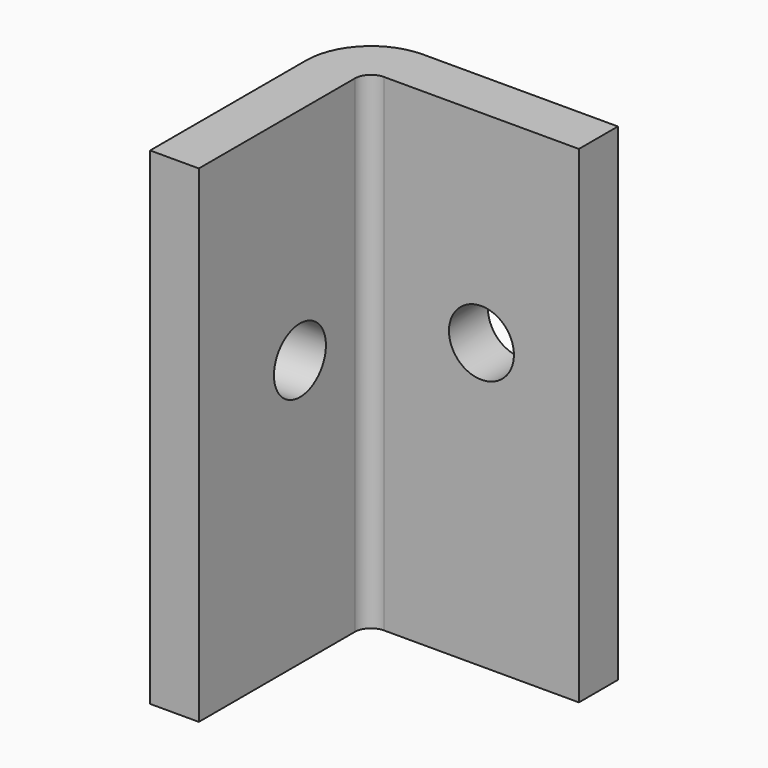
from build123d import *

# Parameters (mm, degrees)
F1_DEPTH = 150
F2_R     = 20
F3_R     = 5
F4_R     = 10
F5_DEPTH = 80.001
F6_R     = 10
F7_DEPTH = 80.001


with BuildPart() as f1:
    # F0 (on Top) → F1 (new body)
    with BuildSketch(Plane.XY):
        Polygon((0, 80), (0, 0), (15, 0), (15, 65), (80, 65), (80, 80), align=None)
    extrude(amount=F1_DEPTH)

    # F2
    f2_edges = [f1.edges().sort_by_distance(p)[0] for p in [
        (0, 80, 75),
    ]]
    fillet(f2_edges, radius=F2_R)

    # F3
    f3_edges = [f1.edges().sort_by_distance(p)[0] for p in [
        (15, 65, 75),
    ]]
    fillet(f3_edges, radius=F3_R)

    # F4 (on face) → F5 (cut, through all)
    with BuildSketch(Plane(origin=(0, 0, 0), x_dir=(0, -1, 0), z_dir=(-1, 0, 0))):
        with Locations((-38.906008, 82.198426)):
            Circle(F4_R)
    extrude(amount=-F5_DEPTH, mode=Mode.SUBTRACT)

    # F6 (on face) → F7 (cut, through all)
    with BuildSketch(Plane(origin=(0, 80, 0), x_dir=(-1, 0, 0), z_dir=(0, 1, 0))):
        with Locations((-50, 87.686576)):
            Circle(F6_R)
    extrude(amount=-F7_DEPTH, mode=Mode.SUBTRACT)


solid = f1.part
